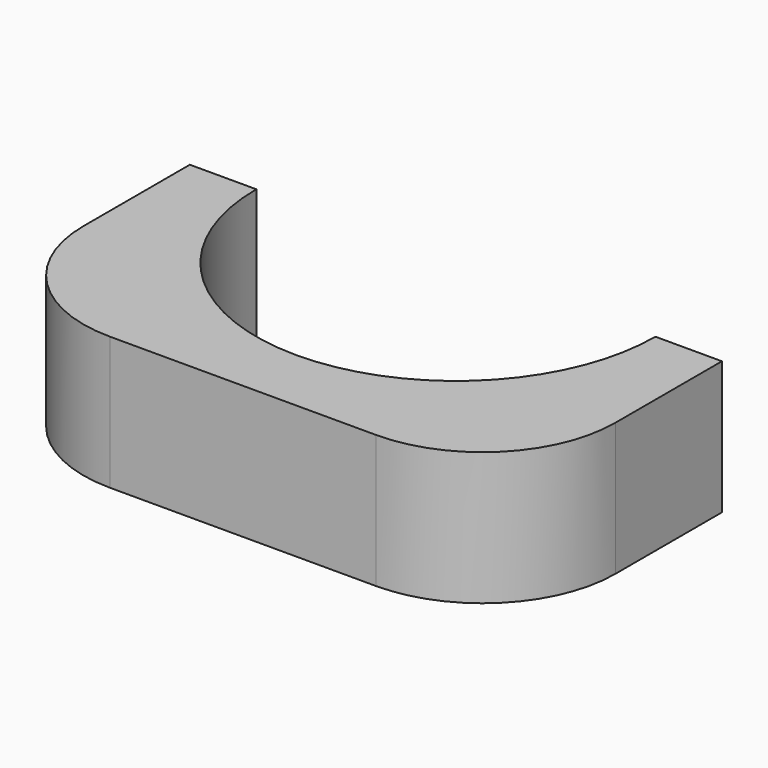
from build123d import *

# Parameters (mm, degrees)
F1_DEPTH = 4
F2_R     = 4


with BuildPart() as f1:
    # F0 (on Top) → F1 (new body)
    with BuildSketch(Plane.XY):
        with BuildLine():
            Line((0, 8), (0, 0))
            Line((0, 0), (16, 0))
            Line((16, 0), (16, 8))
            Line((16, 8), (14, 8))
            ThreePointArc((14, 8), (8, 2), (2, 8))
            Line((2, 8), (0, 8))
        make_face()
    extrude(amount=F1_DEPTH)

    # F2
    f2_edges = [f1.edges().sort_by_distance(p)[0] for p in [
        (16, 0, 2),
        (0, 0, 2),
    ]]
    fillet(f2_edges, radius=F2_R)


solid = f1.part
